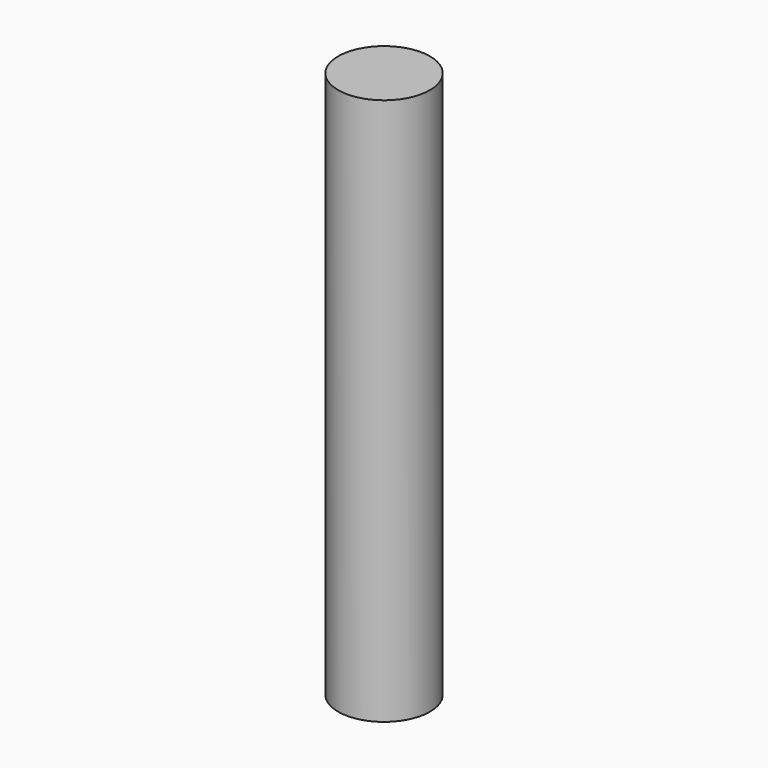
from build123d import *

# Parameters (mm, degrees)
CYLINDER_R     = 1.2573
CYLINDER_DEPTH = 15


with BuildPart() as part:
    # Cylinder → Cylinder (new body)
    with BuildSketch(Plane.XY.offset(-2.5)):
        Circle(CYLINDER_R)
    extrude(amount=CYLINDER_DEPTH)


solid = part.part
